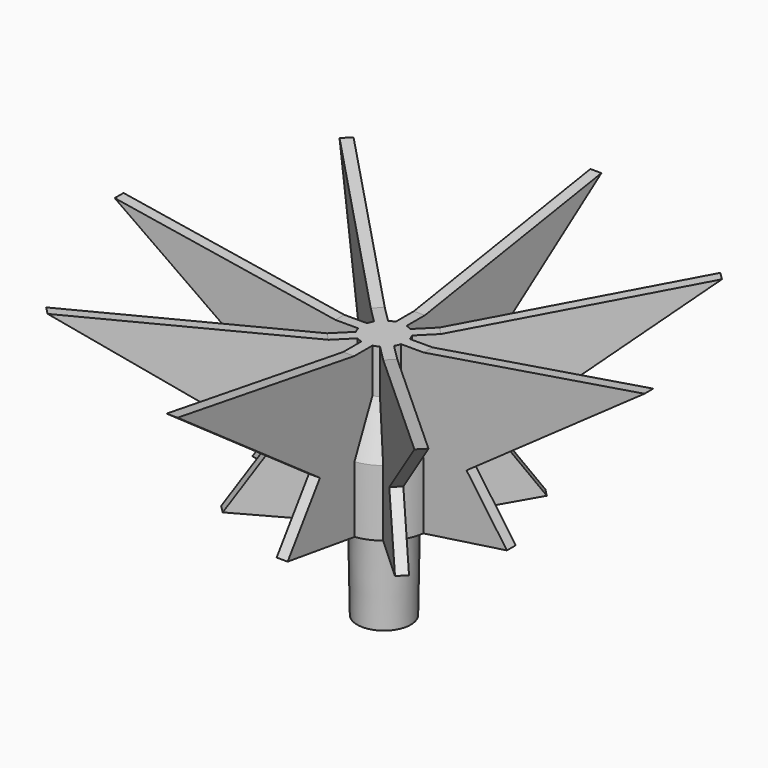
from build123d import *

# Parameters (mm, degrees)
F2_R     = 4.064
F3_DEPTH = 12.7
F3_TAPER = 1
F5_DEPTH = 0.79375
F6_COUNT = 8


with BuildPart() as f1:
    # F0 (on Front) → F1 (revolve)
    with BuildSketch(Plane.XZ):
        Polygon((-6.35, 0), (0, 0), (0, 22.9133968065), (-3.175, 22.9133968065), (-3.175, 16.5633968065), (-6.35, 9.525), align=None)
    revolve(axis=Axis((0, 0, 20.1071155777), (0, 0, 1)))

    # F2 (on face) → F3 (join)
    with BuildSketch(Plane(origin=(0, 0, 0), x_dir=(1, 0, 0), z_dir=(0, 0, -1))):
        Circle(F2_R)
    extrude(amount=F3_DEPTH, taper=F3_TAPER)

    # F4 (on Front) → F5 (join, symmetric)
    with BuildSketch(Plane.XZ):
        Polygon((-18.3153760806, 1.7450850807), (-6.35, 0), (-6.0325, 0), (-6.0325, 9.4567020336), (-2.8575, 16.4950988401), (-2.8575, 22.9133968065), (-3.175, 22.9133968065), (-6.35, 22.9133968065), (-38.1, 28.0183404684), (-12.5059876591, 9.994440712), align=None)
    extrude(amount=F5_DEPTH, both=True)

    # F6: F1 ×8 about axis
    f6_axis = Axis((0, 0, 20.1071155777), (0, 0, 1))


with BuildPart() as f1_1:
    add(f1.part)
    for i in range(1, F6_COUNT):
        add(f1.part.rotate(f6_axis, i * 360 / F6_COUNT))


solid = f1_1.part
